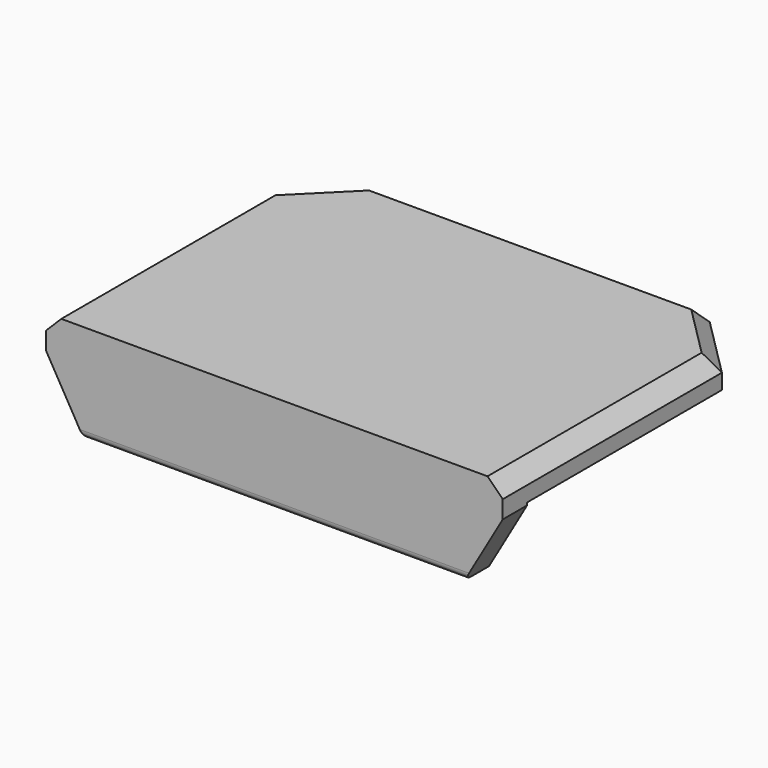
from build123d import *

# Parameters (mm, degrees)
F0_W     = 60
F0_H     = 40
F1_DEPTH = 5
F2_SIZE  = 8
F3_W     = 60
F3_H     = 9
F3_H_2   = 5
F4_DEPTH = 4
F5_SIZE  = 3
F6_SIZE2 = 8.6602540378
F6_SIZE  = 5
F7_R     = 1
F8_W     = 85.4819267988
F8_H     = 62.53941264
F9_DEPTH = 1


with BuildPart() as f1:
    # F0 (on Top) → F1 (new body)
    with BuildSketch(Plane.XY):
        with Locations((0, 20)):
            Rectangle(F0_W, F0_H)
    extrude(amount=F1_DEPTH)

    # F2
    f2_edges = [f1.edges().sort_by_distance(p)[0] for p in [
        (30, 40, 2.5),
        (-30, 40, 2.5),
    ]]
    chamfer(f2_edges, length=F2_SIZE)

    # F3 (on face) → F4 (join)
    with BuildSketch(Plane.XZ):
        with Locations((0, -4.5)):
            Rectangle(F3_W, F3_H)
        with Locations((0, 2.5)):
            Rectangle(F3_W, F3_H_2)
    extrude(amount=F4_DEPTH)

    # F5
    f5_edges = [f1.edges().sort_by_distance(p)[0] for p in [
        (-30, 14, 5),
        (30, 14, 5),
        (0, 40, 5),
        (26, 36, 5),
        (-26, 36, 5),
    ]]
    chamfer(f5_edges, length=F5_SIZE)

    # F6
    f6_edges = [f1.edges().sort_by_distance(p)[0] for p in [
        (-30, -2, -9),
        (30, -2, -9),
    ]]
    f6_side = f1.faces().sort_by_distance((0, -2, -9))[0]
    chamfer(f6_edges, length=F6_SIZE, length2=F6_SIZE2, reference=f6_side)

    # F7
    f7_edges = [f1.edges().sort_by_distance(p)[0] for p in [
        (0, -4, -9),
    ]]
    fillet(f7_edges, radius=F7_R)

    # F8 (on face) → F9 (cut)
    with BuildSketch(Plane.XY.offset(5)):
        with Locations((-1.7423257232, 24.269700516)):
            Rectangle(F8_W, F8_H)
        Polygon((27, -4), (-27, -4), (-27, 30.7573593129), (-20.7573593129, 37), (20.7573593129, 37), (27, 30.7573593129), align=None, mode=Mode.SUBTRACT)
        Polygon((-27, 30.7573593129), (-27, -4), (27, -4), (27, 30.7573593129), (20.7573593129, 37), (-20.7573593129, 37), align=None)
    extrude(amount=-F9_DEPTH, mode=Mode.SUBTRACT)


solid = f1.part
